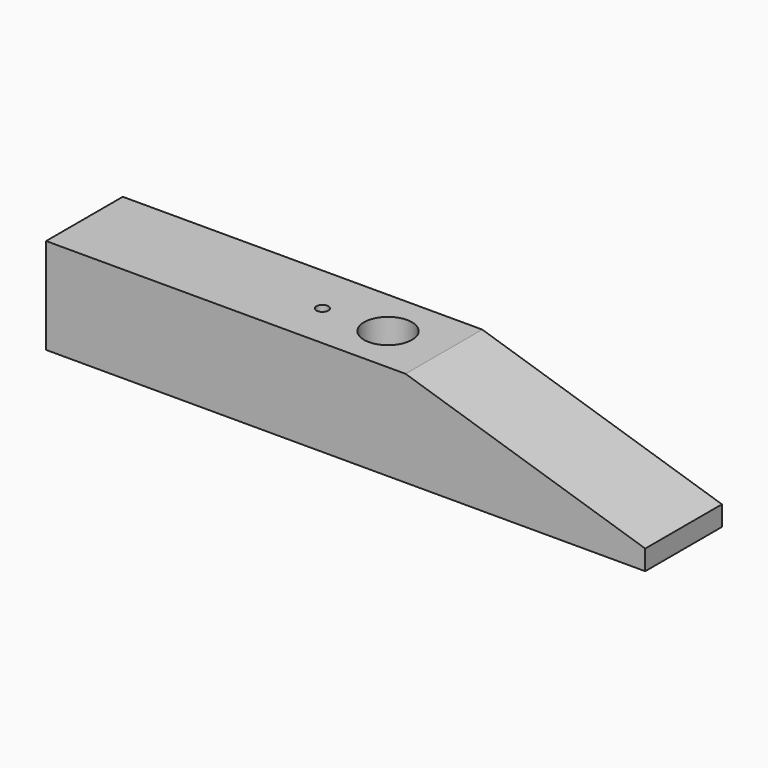
from build123d import *

# Parameters (mm, degrees)
F1_DEPTH = 12
F2_R     = 3
F3_DEPTH = 25
F4_R     = 0.75
F5_DEPTH = 6
F6_R     = 2.5
F7_DEPTH = 4


with BuildPart() as f1:
    # F0 (on Front) → F1 (new body)
    with BuildSketch(Plane.XZ):
        Polygon((0, 12), (-45, 12), (-45, 0), (30, 0), (30, 2.5), align=None)
    extrude(amount=F1_DEPTH)

    # F2 (on face) → F3 (cut)
    with BuildSketch(Plane.XY.offset(12)):
        with Locations((-7, -6)):
            Circle(F2_R)
    extrude(amount=-F3_DEPTH, mode=Mode.SUBTRACT)

    # F4 (on face) → F5 (cut)
    with BuildSketch(Plane.XY.offset(12)):
        with Locations((-15, -6.259349)):
            Circle(F4_R)
    extrude(amount=-F5_DEPTH, mode=Mode.SUBTRACT)

    # F6 (on Top) → F7 (cut)
    with BuildSketch(Plane.XY):
        with Locations((-37, -6)):
            Circle(F6_R)
    extrude(amount=F7_DEPTH, mode=Mode.SUBTRACT)


solid = f1.part
